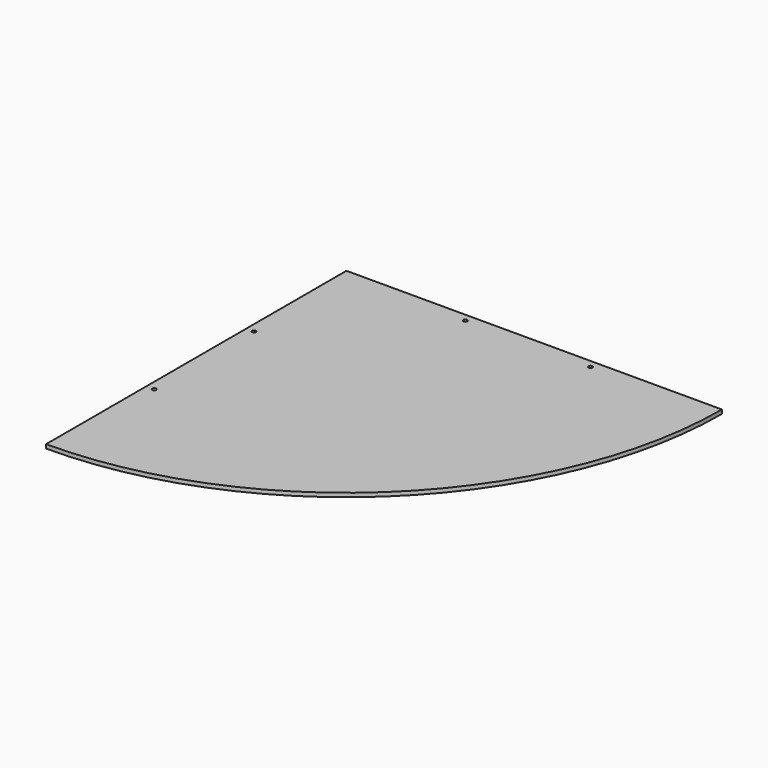
from build123d import *

# Parameters (mm, degrees)
F1_DEPTH = 6.35
F3_D     = 6.35


with BuildPart() as f1:
    # F0 (on Top) → F1 (new body)
    with BuildSketch(Plane.XY):
        with BuildLine():
            Line((287.562685, 328.007207), (-322.037315, 328.007207))
            Line((-322.037315, 328.007207), (-322.037315, -281.592793))
            ThreePointArc((-322.037315, -281.592793), (109.014979, -103.045086), (287.562685, 328.007207))
        make_face()
    extrude(amount=F1_DEPTH)

    # F3 (through all)
    with Locations(Plane.XY.offset(6.35)):
        with Locations((-118.837315, 315.307207), (84.362685, 315.307207), (-309.337315, -78.392793), (-309.337315, 124.807207)):
            Hole(F3_D / 2)


solid = f1.part
